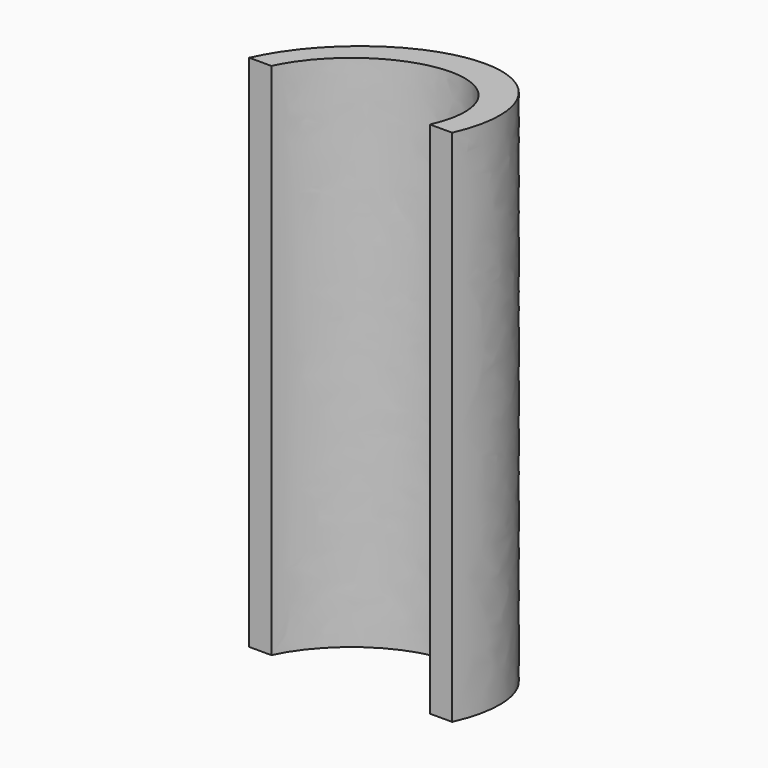
from build123d import *

# Parameters (mm, degrees)
F1_DEPTH = 203.2
F4_DEPTH = 203.2010001
F5_W     = 286.5282446146
F5_H     = 301.3309016824
F6_DEPTH = 76.2


with BuildPart() as f1:
    # F0 (on Top) → F1 (new body)
    with BuildSketch(Plane.XY):
        with BuildLine():
            add(Edge.make_bspline(
                [(-38.2656529546, -34.4207771122), (-0.6638671702, -76.2227643424), (37.9337193695, -3.690605059), (76.5313059092, 68.8415542245), (0.3319335851, 38.1113821712), (-75.867438739, 7.3812101179), (-38.2656529546, -34.4207771122)],
                knots=[0, 0, 0, 2.0943951024, 2.0943951024, 4.1887902048, 4.1887902048, 6.2831853072, 6.2831853072, 6.2831853072], degree=2, weights=[1, 0.5, 1, 0.5, 1, 0.5, 1]))
        make_face()
    extrude(amount=F1_DEPTH)

    # F3 (on face) → F4 (cut, through all)
    with BuildSketch(Plane(origin=(0, 0, 0), x_dir=(1, 0, 0), z_dir=(0, 0, -1))):
        with BuildLine():
            add(Edge.make_bspline(
                [(-30.4845999926, 24.5260708034), (-57.3712727472, -8.8926317123), (1.798963619, -28.9723866595), (60.9691999853, -49.0521416068), (28.6856363736, 4.4463158561), (-3.597927238, 57.9447733191), (-30.4845999926, 24.5260708034)],
                knots=[0, 0, 0, 2.0943951024, 2.0943951024, 4.1887902048, 4.1887902048, 6.2831853072, 6.2831853072, 6.2831853072], degree=2, weights=[1, 0.5, 1, 0.5, 1, 0.5, 1]))
        make_face()
    extrude(amount=-F4_DEPTH, mode=Mode.SUBTRACT)

    # F5 (on Front) → F6 (cut)
    with BuildSketch(Plane.XZ):
        with Locations((-13.1542161107, 72.5056491792)):
            Rectangle(F5_W, F5_H)
    extrude(amount=F6_DEPTH, mode=Mode.SUBTRACT)


solid = f1.part
